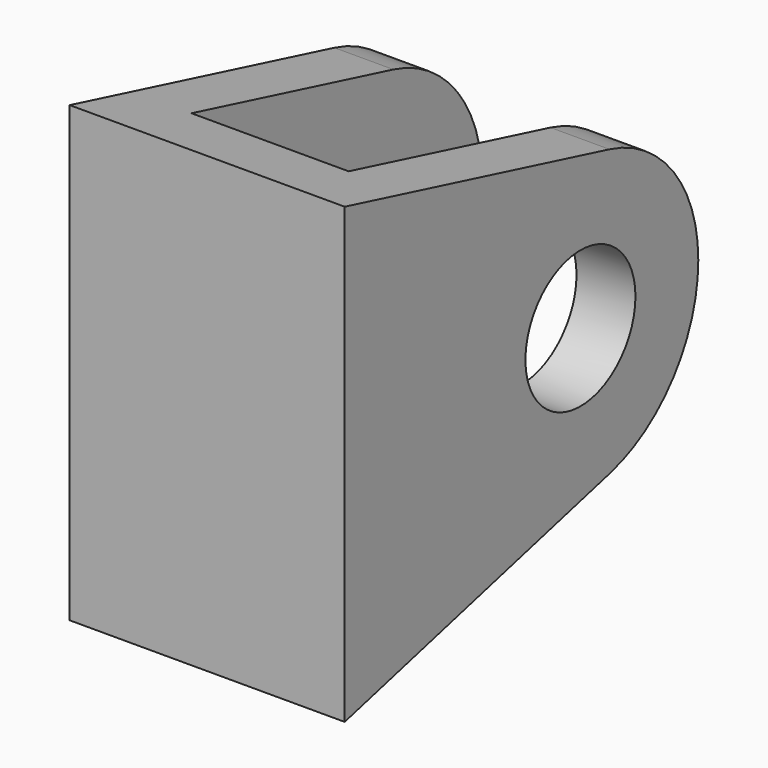
from build123d import *

# Parameters (mm, degrees)
F1_DEPTH = 35
F2_W     = 163.409721
F2_H     = 173.085335
F3_DEPTH = 20
F4_R     = 17.5
F5_DEPTH = 100


with BuildPart() as f1:
    # F0 (on Right) → F1 (new body, symmetric)
    with BuildSketch(Plane.YZ):
        with BuildLine():
            Line((0, 37.721872), (0, 0))
            Line((0, 0), (0, -20))
            Line((0, -20), (84.224192, 1.374048))
            ThreePointArc((84.224192, 1.374048), (112.5, 37.721872), (84.224192, 74.069695))
            Line((84.224192, 74.069695), (0, 95.443744))
            Line((0, 95.443744), (0, 75.443744))
            Line((0, 75.443744), (0, 37.721872))
        make_face()
    extrude(amount=F1_DEPTH, both=True)

    # F2 (on Right) → F3 (cut, symmetric)
    with BuildSketch(Plane.YZ):
        with Locations((101.70486, 41.636539)):
            Rectangle(F2_W, F2_H)
    extrude(amount=F3_DEPTH, both=True, mode=Mode.SUBTRACT)

    # F4 (on face) → F5 (cut)
    with BuildSketch(Plane.YZ.offset(35)):
        with Locations((75, 37.721872)):
            Circle(F4_R)
    extrude(amount=-F5_DEPTH, mode=Mode.SUBTRACT)


solid = f1.part
